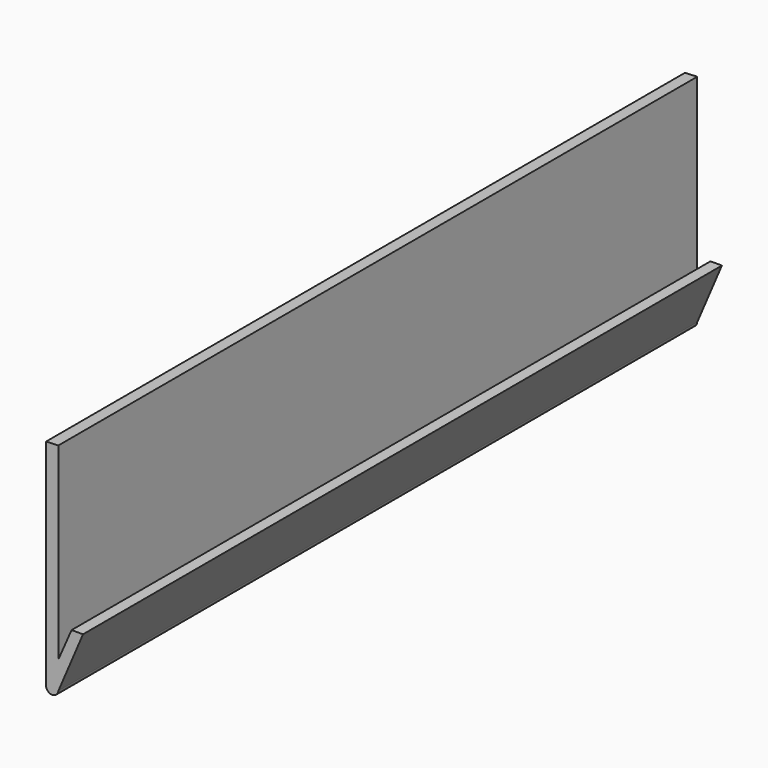
from build123d import *

# Parameters (mm, degrees)
F1_DEPTH = 25.4


with BuildPart() as f1:
    # F0 (on Front) → F1 (new body)
    with BuildSketch(Plane.XZ):
        with BuildLine():
            Line((0, 0), (0, 5.9944))
            Line((0, 5.9944), (-0.390362, 5.977479))
            Line((-0.390362, 5.977479), (-0.390362, -0.856854))
            ThreePointArc((-0.390362, -0.856854), (-0.205291, -1.052327), (0, -0.878212))
            Line((0, -0.878212), (0.784725, 0.96267))
            Line((0.784725, 0.96267), (0.420264, 0.96267))
            Line((0.420264, 0.96267), (0, 0))
        make_face()
    extrude(amount=F1_DEPTH)


solid = f1.part
